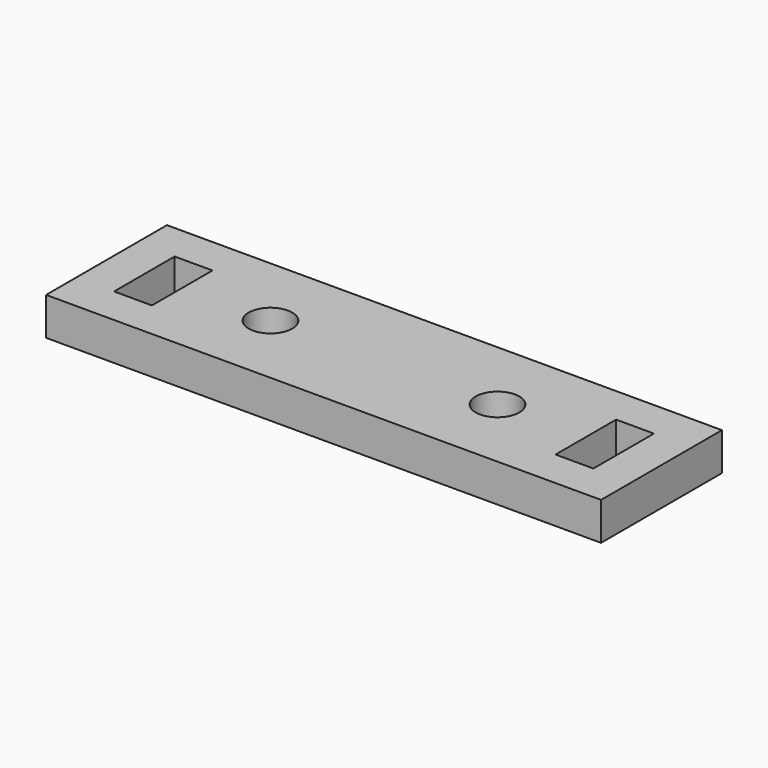
from build123d import *

# Parameters (mm, degrees)
F0_W     = 46.569859
F0_H     = 12.676632
F0_W_2   = 3.175
F0_H_2   = 6.35
F0_R     = 1.8288
F1_DEPTH = 3.175


with BuildPart() as f1:
    # F0 (on Top) → F1 (new body)
    with BuildSketch(Plane.XY):
        with Locations((-23.28493, -6.338316)):
            Rectangle(F0_W, F0_H)
        with Locations((-41.807359, -6.338316)):
            Rectangle(F0_W_2, F0_H_2, mode=Mode.SUBTRACT)
        with Locations((-32.809929, -6.338316)):
            Circle(F0_R, mode=Mode.SUBTRACT)
        with Locations((-13.759929, -6.338316)):
            Circle(F0_R, mode=Mode.SUBTRACT)
        with Locations((-4.7625, -6.338316)):
            Rectangle(F0_W_2, F0_H_2, mode=Mode.SUBTRACT)
    extrude(amount=F1_DEPTH)


solid = f1.part
